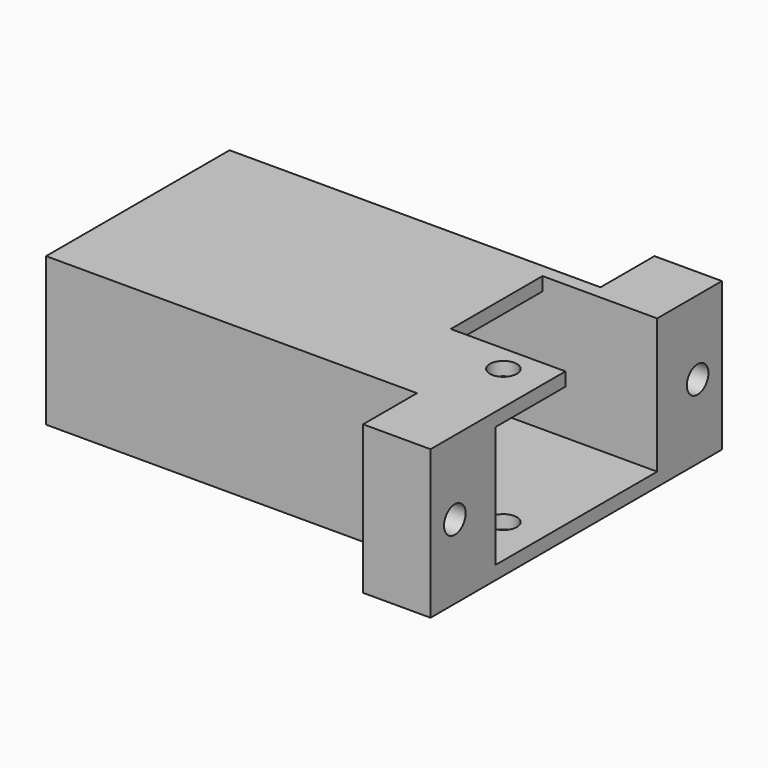
from build123d import *

# Parameters (mm, degrees)
BOX003_W          = 63
BOX003_H          = 30
BOX003_DEPTH      = 18
CYLINDER002_R     = 2
CYLINDER002_DEPTH = 22
BOX005_W          = 17
BOX005_H          = 17
BOX005_DEPTH      = 20
BOX004_W          = 65
BOX004_H          = 22
BOX004_DEPTH      = 18
CYLINDER001_R     = 2
CYLINDER001_DEPTH = 65
CYLINDER_R        = 2
CYLINDER_DEPTH    = 65
BOX002_W          = 55
BOX002_H          = 10
BOX002_DEPTH      = 22
BOX001_W          = 55
BOX001_H          = 10
BOX001_DEPTH      = 22
BOX_W             = 65
BOX_H             = 54
BOX_DEPTH         = 22


with BuildPart() as cavitycutout:
    # Box003 → Box003 (new body)
    with BuildSketch(Plane(origin=(2, 12, 2), x_dir=(1, 0, 0), z_dir=(0, 0, 1))):
        with Locations((31.5, 15)):
            Rectangle(BOX003_W, BOX003_H)
    extrude(amount=BOX003_DEPTH)


with BuildPart() as capturescrewhole:
    # Cylinder002 → Cylinder002 (new body)
    with BuildSketch(Plane(origin=(59, 21, 0), x_dir=(1, 0, 0), z_dir=(0, 0, 1))):
        Circle(CYLINDER002_R)
    extrude(amount=CYLINDER002_DEPTH)


with BuildPart() as cutawaynotch:
    # Box005 → Box005 (new body)
    with BuildSketch(Plane(origin=(48, 25, 2), x_dir=(1, 0, 0), z_dir=(0, 0, 1))):
        with Locations((8.5, 8.5)):
            Rectangle(BOX005_W, BOX005_H)
    extrude(amount=BOX005_DEPTH)


with BuildPart() as interiorcut:
    # Box004 → Box004 (new body)
    with BuildSketch(Plane(origin=(0, 16, 2), x_dir=(1, 0, 0), z_dir=(0, 0, 1))):
        with Locations((32.5, 11)):
            Rectangle(BOX004_W, BOX004_H)
    extrude(amount=BOX004_DEPTH)

    # Fusion003: union CavityCutOut, CaptureScrewHole, CutAwayNotch
    add(cavitycutout.part)
    add(capturescrewhole.part)
    add(cutawaynotch.part)


with BuildPart() as righthole:
    # Cylinder001 → Cylinder001 (new body)
    with BuildSketch(Plane(origin=(0, 49.5, 11), x_dir=(0, 0, -1), z_dir=(1, 0, 0))):
        Circle(CYLINDER001_R)
    extrude(amount=CYLINDER001_DEPTH)


with BuildPart() as mountingholes:
    # Cylinder → Cylinder (new body)
    with BuildSketch(Plane(origin=(0, 4.5, 11), x_dir=(0, 0, -1), z_dir=(1, 0, 0))):
        Circle(CYLINDER_R)
    extrude(amount=CYLINDER_DEPTH)

    # Fusion001: union RightHole
    add(righthole.part)


with BuildPart() as rightcut:
    # Box002 → Box002 (new body)
    with BuildSketch(Plane(origin=(0, 44, 0), x_dir=(1, 0, 0), z_dir=(0, 0, 1))):
        with Locations((27.5, 5)):
            Rectangle(BOX002_W, BOX002_H)
    extrude(amount=BOX002_DEPTH)


with BuildPart() as cutoutsandmounting:
    # Box001 → Box001 (new body)
    with BuildSketch(Plane.XY):
        with Locations((27.5, 5)):
            Rectangle(BOX001_W, BOX001_H)
    extrude(amount=BOX001_DEPTH)

    # Fusion: union RightCut
    add(rightcut.part)

    # Fusion002: union MountingHoles
    add(mountingholes.part)


with BuildPart() as ethernetmount:
    # Box → Box (new body)
    with BuildSketch(Plane.XY):
        with Locations((32.5, 27)):
            Rectangle(BOX_W, BOX_H)
    extrude(amount=BOX_DEPTH)

    # Cut: cut CutoutsAndMounting
    add(cutoutsandmounting.part, mode=Mode.SUBTRACT)

    # Cut001: cut InteriorCut
    add(interiorcut.part, mode=Mode.SUBTRACT)


solid = ethernetmount.part
